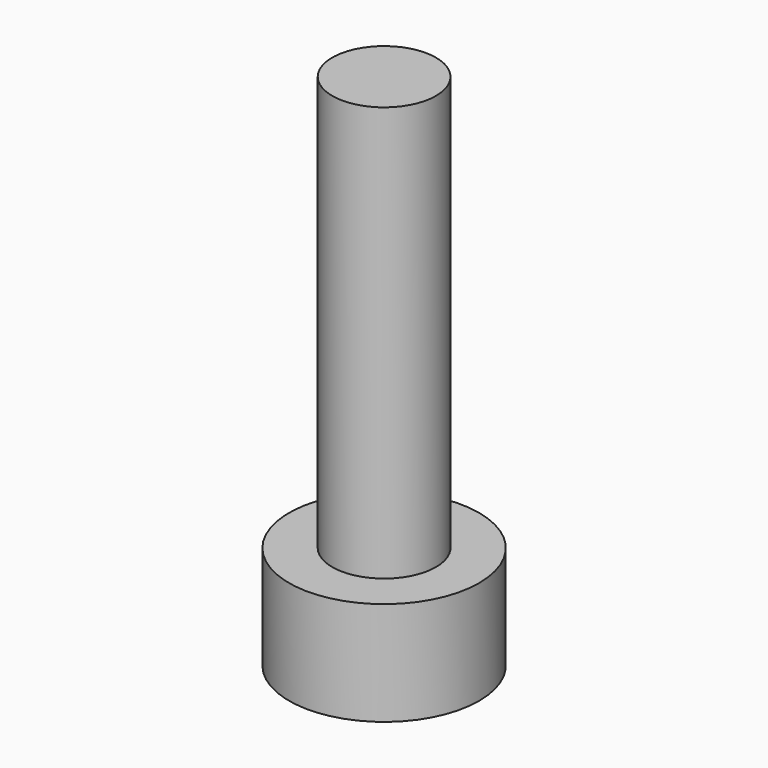
from build123d import *

# Parameters (mm, degrees)
CYLINDER001_R     = 1.5
CYLINDER001_DEPTH = 12
CYLINDER_R        = 2.75
CYLINDER_DEPTH    = 3
POCKET_DEPTH      = 2


with BuildPart() as cylinder001:
    # Cylinder001 → Cylinder001 (new body)
    with BuildSketch(Plane.XY.offset(3)):
        Circle(CYLINDER001_R)
    extrude(amount=CYLINDER001_DEPTH)


with BuildPart() as pocket:
    # Cylinder → Cylinder (new body)
    with BuildSketch(Plane.XY):
        Circle(CYLINDER_R)
    extrude(amount=CYLINDER_DEPTH)

    # Sketch → Pocket (cut)
    with BuildSketch(Plane(origin=(0, 0, 0), x_dir=(1, 0, 0), z_dir=(0, 0, -1))):
        Polygon((-1.445063, 0), (-0.723376, 1.25), (0.72, 1.25), (1.441688, 0), (0.72, -1.25), (-0.723375, -1.25), align=None)
    extrude(amount=-POCKET_DEPTH, mode=Mode.SUBTRACT)


solid = Compound([cylinder001.part, pocket.part])
